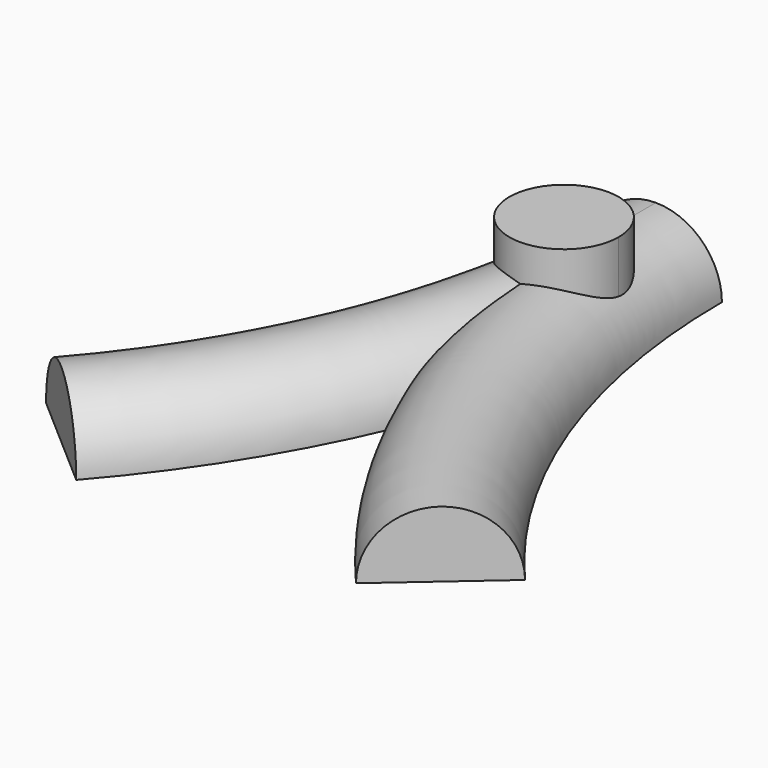
from build123d import *

# Parameters (mm, degrees)
F1_DEPTH = 38.1


with BuildPart() as f1:
    # F0 (on Top) → F1 (new body)
    with BuildSketch(Plane.XY):
        with BuildLine():
            ThreePointArc((0, -22.908895), (-14.689808, -58.373229), (20.774525, -43.683421))
            ThreePointArc((20.774525, -43.683421), (14.689808, -28.993613), (0, -22.908895))
        make_face()
    extrude(amount=F1_DEPTH)

    # F4: sweep along a path in F2
    with BuildLine(Plane.XY) as f4_path:
        ThreePointArc((-72.136711, -192.550732), (-18.626108, -102.809884), (0, 0))
    # F3 (on Front) → F4 (sweep)
    with BuildSketch(Plane.XZ):
        with BuildLine():
            Line((-25.131127, 0), (25.131127, 0))
            ThreePointArc((25.131127, 0), (0, 25.131127), (-25.131127, 0))
        make_face()
    sweep(path=f4_path.line)

    # F5: sweep along a path in F2
    with BuildLine(Plane.XY) as f5_path:
        ThreePointArc((72.136711, -192.550732), (18.626108, -102.809884), (0, 0))
    # F4_face (on face) → F5 (sweep)
    with BuildSketch(Plane(origin=(0, 0, 10.665982), x_dir=(-1, 0, 0), z_dir=(0, 1, 0))):
        with BuildLine():
            Line((-25.131127, -10.665982), (25.131127, -10.665982))
            ThreePointArc((25.131127, -10.665982), (0, 14.465145), (-25.131127, -10.665982))
        make_face()
    sweep(path=f5_path.line)


solid = f1.part
